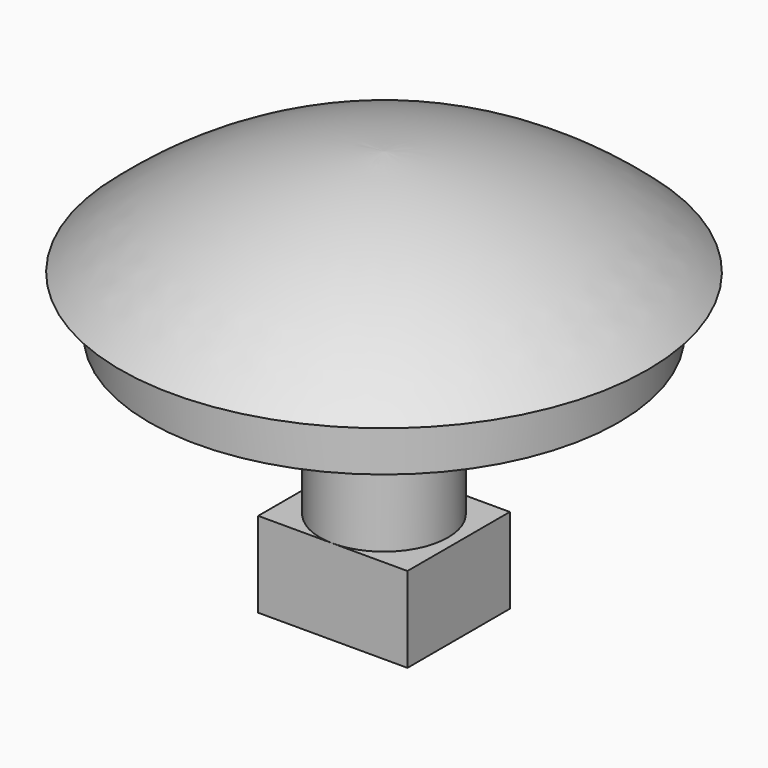
from build123d import *

# Parameters (mm, degrees)
F0_R      = 12
F1_DEPTH  = 29.4
F0_R_2    = 44
F2_DEPTH  = 10.5
F5_W      = 14
F5_H      = 24
F6_DEPTH  = 16
F8_W      = 2
F8_H      = 7
F9_DEPTH  = 4
F10_W     = 7
F10_H     = 2
F11_DEPTH = 8


with BuildPart() as f1:
    # F0 (on Top) → F1 (new body)
    with BuildSketch(Plane.XY):
        Circle(F0_R)
    extrude(amount=-F1_DEPTH)

    # F0 (on Top) → F2 (join)
    with BuildSketch(Plane.XY):
        Circle(F0_R_2)
        Circle(F0_R, mode=Mode.SUBTRACT)
        Circle(F0_R)
    extrude(amount=F2_DEPTH)

    # F3 (on Front) → F4 (revolve)
    with BuildSketch(Plane.XZ):
        with BuildLine():
            Line((-49.5, 10.5), (0, 10.5))
            Line((0, 10.5), (0, 30.5))
            ThreePointArc((0, 30.5), (-26.4675851071, 24.7510231401), (-49.5, 10.5))
        make_face()
    revolve(axis=Axis((0, 0, 20.5), (0, 0, 1)))



with BuildPart() as f6:
    # F5 (on face) → F6 (new body)
    with BuildSketch(Plane(origin=(0, 0, -29.4), x_dir=(1, 0, 0), z_dir=(0, 0, -1))):
        with Locations((7, 0)):
            Rectangle(F5_W, F5_H)
    extrude(amount=F6_DEPTH)


with BuildPart() as f1_1:
    add(f1.part)

    add(f6.part)  # F7 merges F6
    # F7: F6 across face
    add(f6.part.mirror(Plane(origin=(0, 0, -37.4), x_dir=(0, -1, 0), z_dir=(-1, 0, 0))))

    # F8 (on face) → F9 (join)
    with BuildSketch(Plane(origin=(0, 0, -45.4), x_dir=(1, 0, 0), z_dir=(0, 0, -1))):
        with Locations((-1, 0)):
            Rectangle(F8_W, F8_H)
    extrude(amount=F9_DEPTH)

    # F10 (on face) → F11 (join)
    with BuildSketch(Plane.YZ):
        with Locations((0, -48.4)):
            Rectangle(F10_W, F10_H)
    extrude(amount=F11_DEPTH)


solid = f1_1.part
